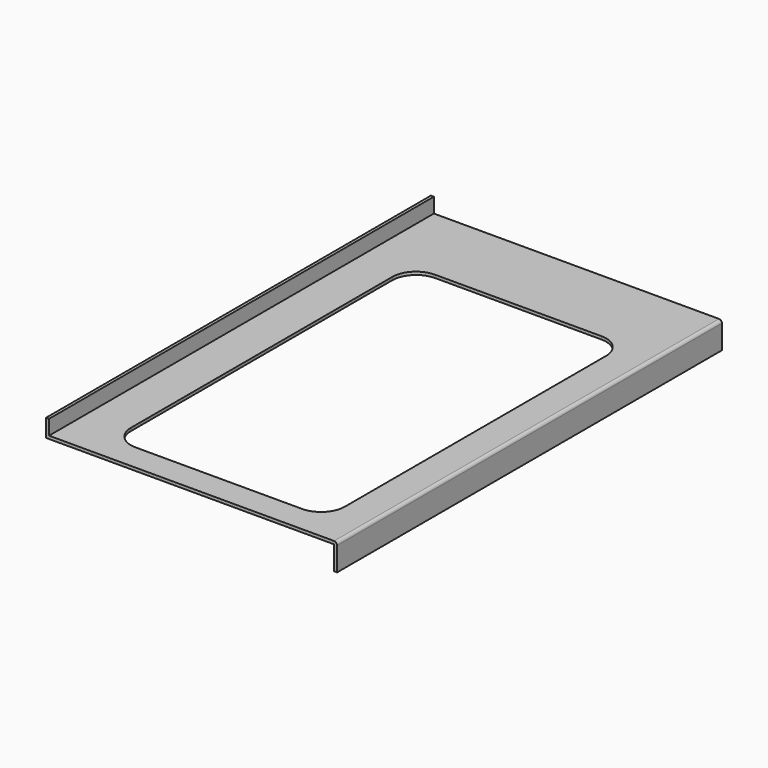
from build123d import *

# Parameters (mm, degrees)
F1_DEPTH = 514.35
F3_DEPTH = 25.4


with BuildPart() as f1:
    # F0 (on Front) → F1 (new body, symmetric)
    with BuildSketch(Plane.XZ):
        with BuildLine():
            Line((0, 6.35), (-609.6, 6.35))
            Line((-609.6, 6.35), (-609.6, 38.1))
            Line((-609.6, 38.1), (-615.95, 38.1))
            Line((-615.95, 38.1), (-615.95, 0))
            Line((-615.95, 0), (0, 0))
            Line((0, 0), (0, -50.8))
            Line((0, -50.8), (6.35, -50.8))
            Line((6.35, -50.8), (6.35, 0))
            ThreePointArc((6.35, 0), (4.4901280605, 4.4901280605), (0, 6.35))
        make_face()
    extrude(amount=F1_DEPTH, both=True)

    # F2 (on face) → F3 (cut)
    with BuildSketch(Plane.XY.offset(6.35)):
        with BuildLine():
            Line((-114.3, 342.9), (-469.9, 342.9))
            ThreePointArc((-469.9, 342.9), (-505.8210244843, 328.0210244843), (-520.7, 292.1))
            Line((-520.7, 292.1), (-520.7, -406.4))
            ThreePointArc((-520.7, -406.4), (-505.8210244843, -442.3210244843), (-469.9, -457.2))
            Line((-469.9, -457.2), (-114.3, -457.2))
            ThreePointArc((-114.3, -457.2), (-78.3789755157, -442.3210244843), (-63.5, -406.4))
            Line((-63.5, -406.4), (-63.5, 292.1))
            ThreePointArc((-63.5, 292.1), (-78.3789755157, 328.0210244843), (-114.3, 342.9))
        make_face()
    extrude(amount=-F3_DEPTH, mode=Mode.SUBTRACT)


solid = f1.part
